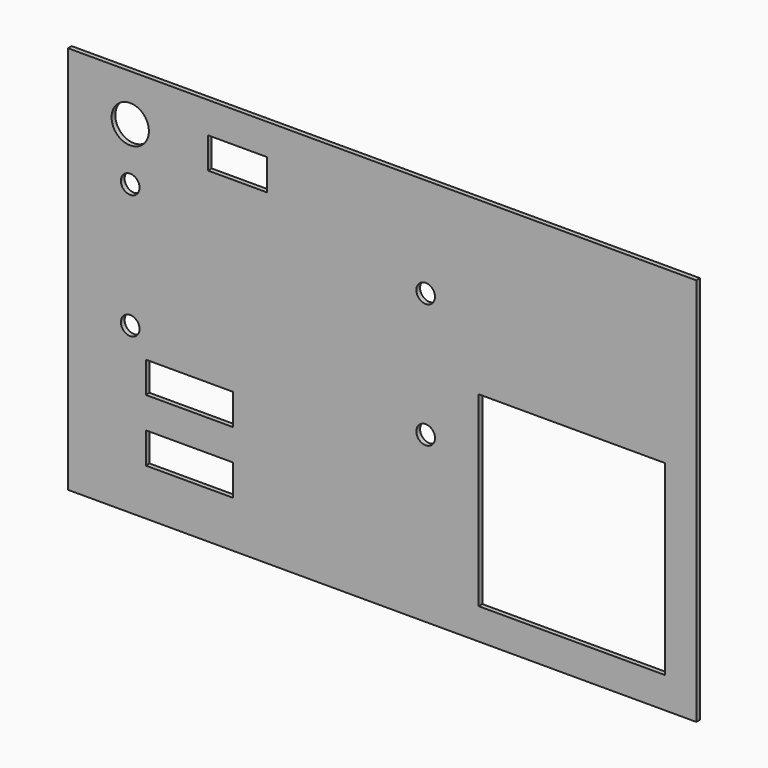
from build123d import *

# Parameters (mm, degrees)
F0_W     = 202
F0_H     = 125
F0_W_2   = 60
F0_H_2   = 60
F1_DEPTH = 1.5
F2_W     = 28
F2_H     = 10
F2_R     = 6
F2_W_2   = 19
F3_DEPTH = 1.5
F4_R     = 3
F5_DEPTH = 1.5


with BuildPart() as f1:
    # F0 (on Front) → F1 (new body)
    with BuildSketch(Plane.XZ):
        with Locations((101, 62.5)):
            Rectangle(F0_W, F0_H)
        with Locations((162, 40)):
            Rectangle(F0_W_2, F0_H_2, mode=Mode.SUBTRACT)
    extrude(amount=F1_DEPTH)

    # F2 (on face) → F3 (cut, through all)
    with BuildSketch(Plane.XZ.offset(1.5)):
        with Locations((39, 20)):
            Rectangle(F2_W, F2_H)
        with Locations((39, 40)):
            Rectangle(F2_W, F2_H)
        with Locations((20, 110)):
            Circle(F2_R)
        with Locations((54.5, 110)):
            Rectangle(F2_W_2, F2_H)
    extrude(amount=-F3_DEPTH, mode=Mode.SUBTRACT)

    # F4 (on face) → F5 (cut, through all)
    with BuildSketch(Plane(origin=(0, 0, 0), x_dir=(-1, 0, 0), z_dir=(0, 1, 0))):
        with Locations((-20, 93)):
            Circle(F4_R)
        with Locations((-115, 53)):
            Circle(F4_R)
        with Locations((-20, 53)):
            Circle(F4_R)
        with Locations((-115, 93)):
            Circle(F4_R)
    extrude(amount=-F5_DEPTH, mode=Mode.SUBTRACT)


solid = f1.part
